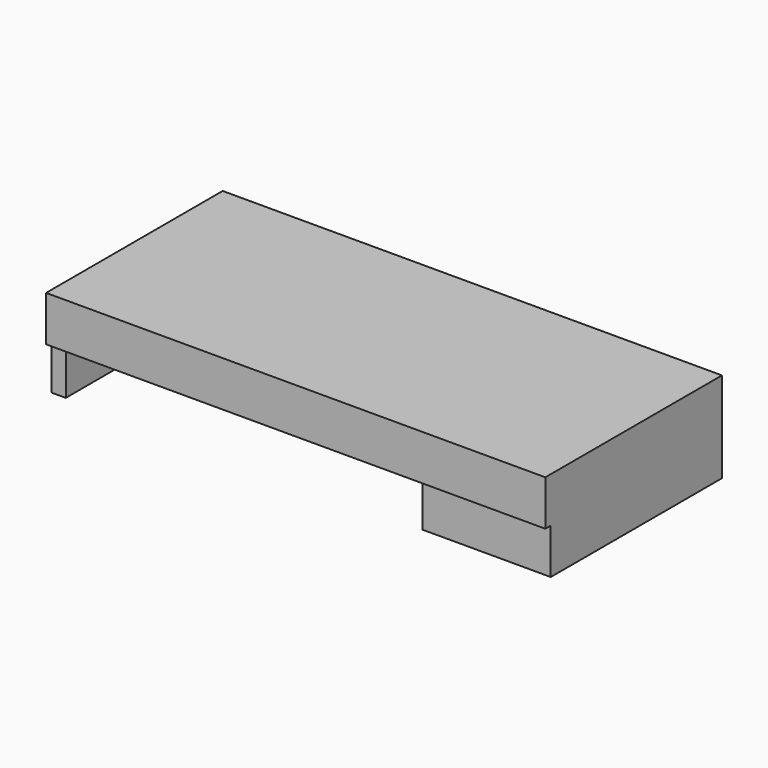
from build123d import *

# Parameters (mm, degrees)
F0_W     = 140
F0_H     = 25.4
F1_DEPTH = 61.9
F3_DEPTH = 12.7
F4_R     = 2
F5_DEPTH = 3.5


with BuildPart() as f1:
    # F0 (on Front) → F1 (new body)
    with BuildSketch(Plane.XZ):
        with Locations((10.794906, -20.302821)):
            Rectangle(F0_W, F0_H)
    extrude(amount=F1_DEPTH)

    # F2 (on face) → F3 (cut)
    with BuildSketch(Plane(origin=(0, 0, -33.002821), x_dir=(1, 0, 0), z_dir=(0, 0, -1))):
        Polygon((-55.205094, 0), (44.794906, 0), (44.794906, 60), (80.794906, 60), (80.794906, 61.9), (-59.205094, 61.9), (-59.205094, 60), (-55.205094, 60), align=None)
    extrude(amount=-F3_DEPTH, mode=Mode.SUBTRACT)

    # F4 (on face) → F5 (join)
    with BuildSketch(Plane(origin=(0, 0, -20.302821), x_dir=(1, 0, 0), z_dir=(0, 0, -1))):
        with Locations((-27.430094, 48.824)):
            Circle(F4_R)
        with Locations((-27.430094, 36.124)):
            Circle(F4_R)
        with Locations((17.019906, 48.824)):
            Circle(F4_R)
        with Locations((17.019906, 36.124)):
            Circle(F4_R)
    extrude(amount=F5_DEPTH)


solid = f1.part
